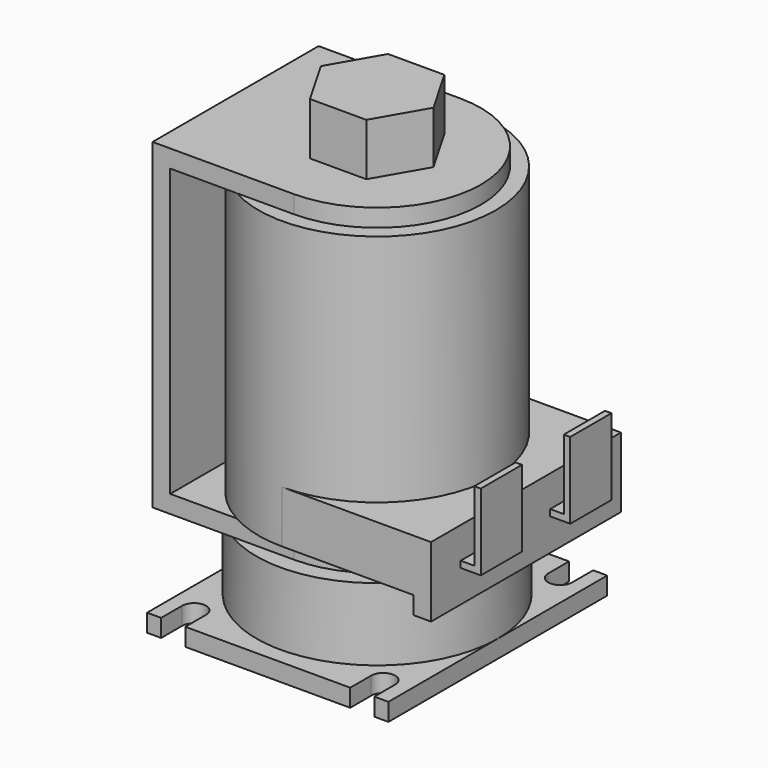
from build123d import *

# Parameters (mm, degrees)
PAD_DEPTH    = 2.2
SKETCH001_R  = 14.75
SKETCH001_W  = 2.2
SKETCH001_H  = 25.8
PAD001_DEPTH = 35.6
PAD002_DEPTH = 2.2
PAD003_DEPTH = 6.5
SKETCH004_R  = 15
PAD004_DEPTH = 9
PAD005_DEPTH = 2.2
SKETCH006_W  = 18.5
SKETCH006_H  = 29.5
PAD006_DEPTH = 6.5
SKETCH007_W  = 2.2
SKETCH007_H  = 29.5
PAD007_DEPTH = 2.2
SKETCH008_W  = 2.5
SKETCH008_H  = 6.4
PAD008_DEPTH = 0.8
SKETCH009_W  = 0.8
SKETCH009_H  = 6.4
PAD009_DEPTH = 9.5


with BuildPart() as part:
    # Sketch → Pad (new body)
    with BuildSketch(Plane.XY):
        with BuildLine():
            ThreePointArc((0, -12.9), (12.9, 0), (0, 12.9))
            Line((0, 12.9), (-17.6, 12.9))
            Line((-17.6, 12.9), (-17.6, -12.9))
            Line((0, -12.9), (-17.6, -12.9))
        make_face()
    extrude(amount=PAD_DEPTH)

    # Sketch001 → Pad001 (join)
    with BuildSketch(Plane.XY.offset(2.2)):
        Circle(SKETCH001_R)
        with Locations((-16.5, 0)):
            Rectangle(SKETCH001_W, SKETCH001_H)
    extrude(amount=PAD001_DEPTH)

    # Sketch002 → Pad002 (join)
    with BuildSketch(Plane.XY.offset(37.8)):
        with BuildLine():
            Line((-17.6, 12.9), (0, 12.9))
            ThreePointArc((0, -12.9), (12.9, 0), (0, 12.9))
            Line((-17.6, -12.9), (0, -12.9))
            Line((-17.6, 12.9), (-17.6, -12.9))
        make_face()
    extrude(amount=PAD002_DEPTH)

    # Sketch003 → Pad003 (join)
    with BuildSketch(Plane.XY.offset(40)):
        Polygon((3.5, 6.062178), (-3.5, 6.062178), (-7, 0), (-3.5, -6.062178), (3.5, -6.062178), (7, 0), align=None)
    extrude(amount=PAD003_DEPTH)

    # Sketch004 → Pad004 (join)
    with BuildSketch(Plane.XY):
        Circle(SKETCH004_R)
    extrude(amount=-PAD004_DEPTH)

    # Sketch005 → Pad005 (join)
    with BuildSketch(Plane.XY.offset(-9)):
        with BuildLine():
            Line((-15, 17), (-15, -16.999987))
            Line((-15, -16.999987), (-13.25, -16.999987))
            Line((-13.25, -13.749993), (-13.25, -16.999987))
            ThreePointArc((-10.25, -13.749993), (-11.75, -12.249993), (-13.25, -13.749993))
            Line((-10.25, -13.749993), (-10.25, -16.999987))
            Line((-10.25, -16.999987), (10.25, -16.999987))
            Line((10.25, -13.749993), (10.25, -16.999987))
            ThreePointArc((13.25, -13.749993), (11.75, -12.249993), (10.25, -13.749993))
            Line((13.25, -13.749993), (13.25, -16.999987))
            Line((13.25, -16.999987), (15, -17))
            Line((15, -17), (15, 17))
            Line((15, 17), (13.25, 17))
            Line((13.25, 13.750007), (13.25, 17))
            ThreePointArc((10.25, 13.750007), (11.75, 12.250007), (13.25, 13.750007))
            Line((10.25, 13.750007), (10.25, 17))
            Line((10.25, 17), (-10.25, 17))
            Line((-10.25, 13.750007), (-10.25, 17))
            ThreePointArc((-13.25, 13.750007), (-11.75, 12.250007), (-10.25, 13.750007))
            Line((-13.25, 13.750007), (-13.25, 17))
            Line((-13.25, 17), (-15, 17))
        make_face()
    extrude(amount=-PAD005_DEPTH)

    # Sketch006 → Pad006 (join)
    with BuildSketch(Plane.XY.offset(2.2)):
        with Locations((9.25, 0)):
            Rectangle(SKETCH006_W, SKETCH006_H)
    extrude(amount=PAD006_DEPTH)

    # Sketch007 → Pad007 (join)
    with BuildSketch(Plane.XY):
        with Locations((17.4, 0)):
            Rectangle(SKETCH007_W, SKETCH007_H)
    extrude(amount=PAD007_DEPTH)

    # Sketch008 → Pad008 (join)
    with BuildSketch(Plane.XY.offset(4)):
        with Locations((19.75, 6.95)):
            Rectangle(SKETCH008_W, SKETCH008_H)
        with Locations((19.75, -6.95)):
            Rectangle(SKETCH008_W, SKETCH008_H)
    extrude(amount=PAD008_DEPTH)

    # Sketch009 → Pad009 (join)
    with BuildSketch(Plane.XY.offset(4)):
        with Locations((20.6, 6.95)):
            Rectangle(SKETCH009_W, SKETCH009_H)
        with Locations((20.6, -6.95)):
            Rectangle(SKETCH009_W, SKETCH009_H)
    extrude(amount=PAD009_DEPTH)


solid = part.part
